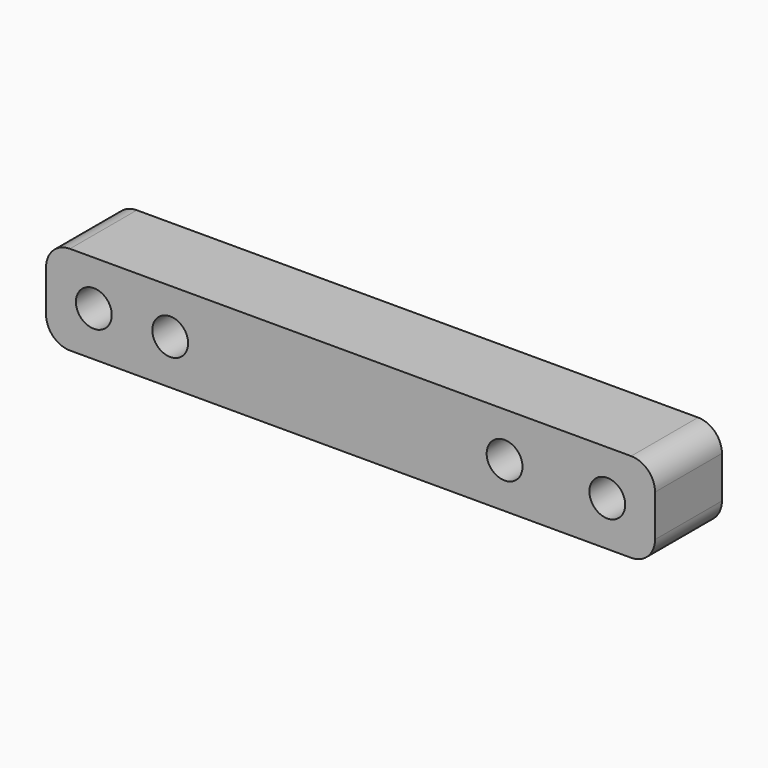
from build123d import *

# Parameters (mm, degrees)
F0_W     = 51
F0_H     = 7
F1_DEPTH = 3.75
F2_R     = 2
F3_R     = 2
F4_R     = 2
F5_R     = 2
F6_R     = 1.5
F7_DEPTH = 3.5
F8_R     = 1.5
F9_DEPTH = 3.5


with BuildPart() as f1:
    # F0 (on Top) → F1 (new body, symmetric)
    with BuildSketch(Plane.XY):
        Rectangle(F0_W, F0_H)
    extrude(amount=F1_DEPTH, both=True)

    # F2
    f2_edges = [f1.edges().sort_by_distance(p)[0] for p in [
        (-25.5, 0, 3.75),
    ]]
    fillet(f2_edges, radius=F2_R)

    # F3
    f3_edges = [f1.edges().sort_by_distance(p)[0] for p in [
        (-25.5, 0, -3.75),
    ]]
    fillet(f3_edges, radius=F3_R)

    # F4
    f4_edges = [f1.edges().sort_by_distance(p)[0] for p in [
        (25.5, 0, 3.75),
    ]]
    fillet(f4_edges, radius=F4_R)

    # F5
    f5_edges = [f1.edges().sort_by_distance(p)[0] for p in [
        (25.5, 0, -3.75),
    ]]
    fillet(f5_edges, radius=F5_R)

    # F6 (on Front) → F7 (intersect, symmetric)
    with BuildSketch(Plane.XZ):
        with BuildLine():
            ThreePointArc((-25.5, -1.75), (-24.9142135624, -3.1642135624), (-23.5, -3.75))
            Line((-23.5, -3.75), (23.5, -3.75))
            ThreePointArc((23.5, -3.75), (24.9142135624, -3.1642135624), (25.5, -1.75))
            Line((25.5, -1.75), (25.5, 1.75))
            ThreePointArc((25.5, 1.75), (24.9142135624, 3.1642135624), (23.5, 3.75))
            Line((23.5, 3.75), (-23.5, 3.75))
            ThreePointArc((-23.5, 3.75), (-24.9142135624, 3.1642135624), (-25.5, 1.75))
            Line((-25.5, 1.75), (-25.5, -1.75))
        make_face()
        with Locations((-21.5, 0)):
            Circle(F6_R, mode=Mode.SUBTRACT)
        with Locations((21.5, 0)):
            Circle(F6_R, mode=Mode.SUBTRACT)
    extrude(amount=F7_DEPTH, both=True, mode=Mode.INTERSECT)

    # F8 (on Front) → F9 (cut, symmetric)
    with BuildSketch(Plane.XZ):
        with Locations((-15.1026989078, 0)):
            Circle(F8_R)
        with Locations((12.8973010922, 0)):
            Circle(F8_R)
    extrude(amount=F9_DEPTH, both=True, mode=Mode.SUBTRACT)


solid = f1.part
